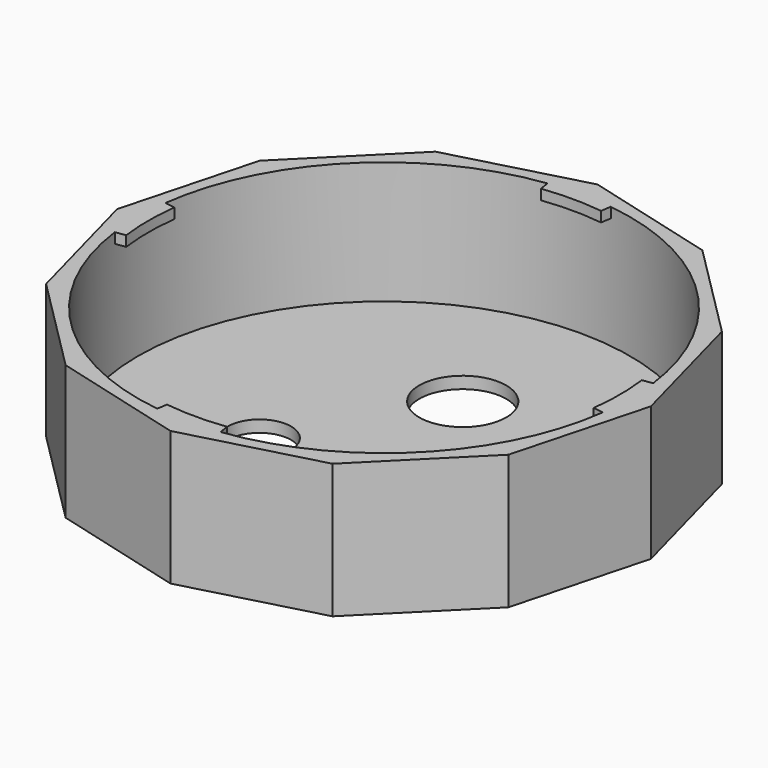
from build123d import *

# Parameters (mm, degrees)
SKETCH_R           = 5.5
SKETCH_R_2         = 4
PAD_DEPTH          = 17
SKETCH001_R        = 31.125
HOLE_DEPTH         = 15.5
PAD001_DEPTH       = 1.3
POLARPATTERN_COUNT = 4


with BuildPart() as part:
    # Sketch → Pad (new body)
    with BuildSketch(Plane.XY):
        Polygon((-29.250775, 16.887943), (-33.775885, 0), (-29.250775, -16.887943), (-16.887943, -29.250775), (0, -33.775885), (16.887943, -29.250775), (29.250775, -16.887943), (33.775885, 0), (29.250775, 16.887943), (16.887943, 29.250775), (0, 33.775885), (-16.887943, 29.250775), align=None)
        with Locations((0, 12.45)):
            Circle(SKETCH_R, mode=Mode.SUBTRACT)
        with Locations((10.782016, -6.225)):
            Circle(SKETCH_R_2, mode=Mode.SUBTRACT)
        with Locations((-10.782016, -6.225)):
            Circle(SKETCH_R_2, mode=Mode.SUBTRACT)
    extrude(amount=PAD_DEPTH)

    # Sketch001 (on Face17 of Pad) → Hole (cut)
    with BuildSketch(Plane.XY.offset(17)):
        Circle(SKETCH001_R)
    extrude(amount=-HOLE_DEPTH, mode=Mode.SUBTRACT)

    # Sketch002 (on Face5 of Hole) → Pad001 (join)
    with BuildSketch(Plane.XY.offset(17)):
        with BuildLine():
            ThreePointArc((-30.866902, 4), (-31.125, 0), (-30.866902, -4))
            Line((-30.866902, -4), (-29.581931, -3.8))
            ThreePointArc((-29.581931, 3.8), (-29.825, 0), (-29.581931, -3.8))
            Line((-30.866902, 4), (-29.581931, 3.8))
        make_face()
    pad001 = extrude(amount=-PAD001_DEPTH)

    # PolarPattern: Pad001 ×4 about axis
    polarpattern_axis = Axis((0, 0, 17), (0, 0, 1))
    for i in range(1, POLARPATTERN_COUNT):
        add(pad001.rotate(polarpattern_axis, i * 360 / POLARPATTERN_COUNT))


solid = part.part
